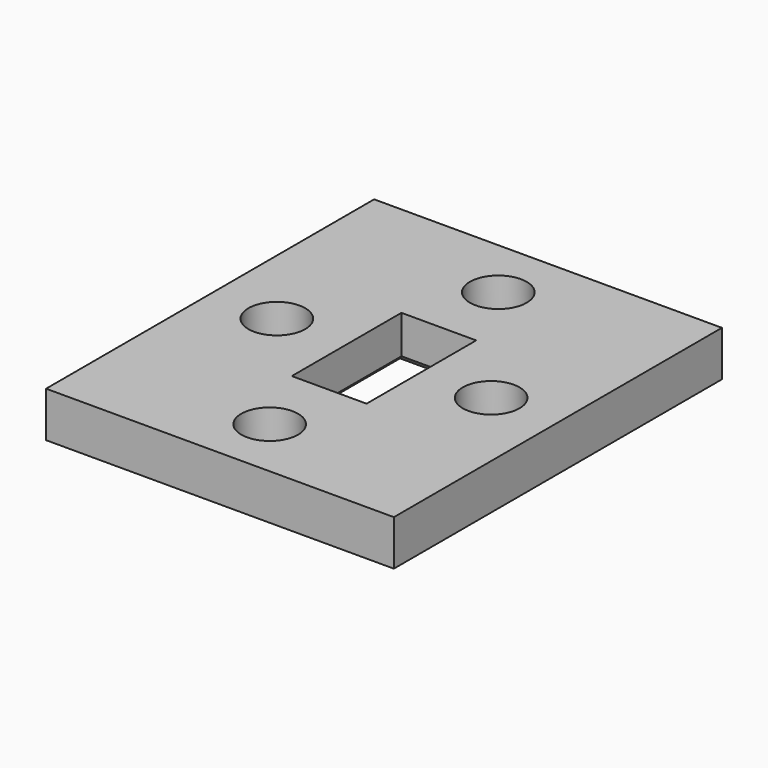
from build123d import *

# Parameters (mm, degrees)
F0_W     = 97.37
F0_H     = 114.8
F1_DEPTH = 12.7
F2_W     = 20.93
F2_H     = 38.36
F3_DEPTH = 12.701
F4_SIZE  = 2
F5_R     = 7.95
F6_DEPTH = 12.701


with BuildPart() as f1:
    # F0 (on Top) → F1 (new body)
    with BuildSketch(Plane.XY):
        Rectangle(F0_W, F0_H)
    extrude(amount=-F1_DEPTH)

    # F2 (on face) → F3 (cut, through all)
    with BuildSketch(Plane.XY):
        Rectangle(F2_W, F2_H)
    extrude(amount=-F3_DEPTH, mode=Mode.SUBTRACT)

    # F4
    f4_edges = [f1.edges().sort_by_distance(p)[0] for p in [
        (0, 19.18, -12.7),
        (10.465, 0, -12.7),
        (-10.465, 0, -12.7),
        (0, -19.18, -12.7),
    ]]
    chamfer(f4_edges, length=F4_SIZE)

    # F5 (on face) → F6 (cut, through all)
    with BuildSketch(Plane.XY):
        with Locations((0, 40)):
            Circle(F5_R)
        with Locations((30, 0)):
            Circle(F5_R)
        with Locations((-30, 0)):
            Circle(F5_R)
        with Locations((0, -40)):
            Circle(F5_R)
    extrude(amount=-F6_DEPTH, mode=Mode.SUBTRACT)


solid = f1.part
